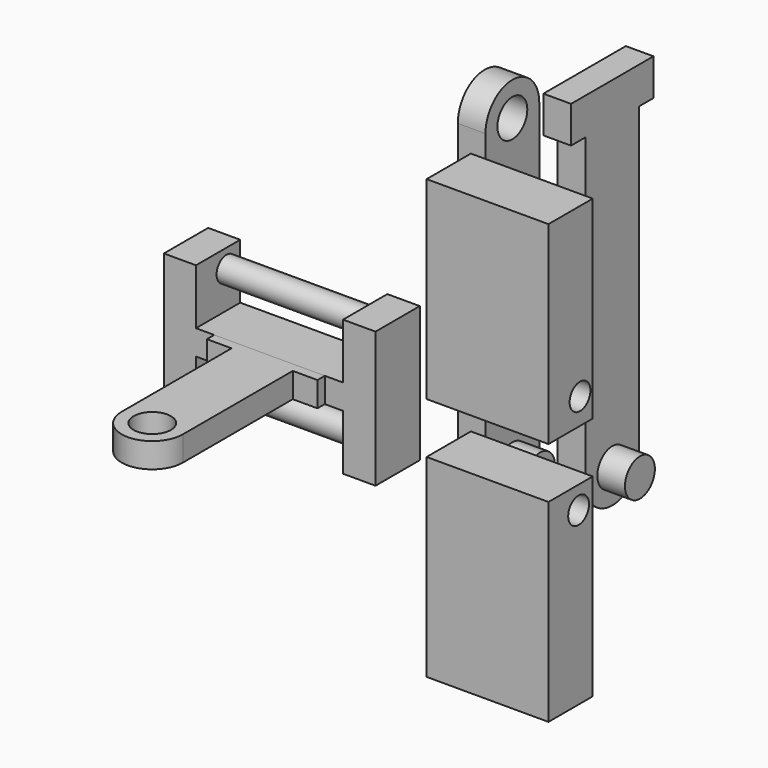
from build123d import *

# Parameters (mm, degrees)
F1_DEPTH  = 25.4
F2_R      = 8.5725
F3_DEPTH  = 12.7
F4_DEPTH  = 25.4
F5_R      = 8.5725
F6_DEPTH  = 11.440287
F0_W      = 55.9562
F0_H      = 88.9
F7_DEPTH  = 25.4
F10_D     = 11.938
F10_DEPTH = 76.2
F8_R      = 5.667763
F8_R_2    = 5.87329
F11_DEPTH = 76.2


with BuildPart() as f1:
    # F0 (on Front) → F1 (new body)
    with BuildSketch(Plane.XZ):
        Polygon((-32.358131, 25.119715), (-47.087183, 25.119715), (-47.087183, -37.176999), (-32.358131, -37.176999), (-32.358131, -11.745678), (35.168068, -11.745678), (35.168068, -37.176999), (50.077325, -37.176999), (50.077325, 25.119715), (35.168068, 25.119715), (35.168068, -0.305422), (-32.358131, -0.305422), align=None)
    extrude(amount=F1_DEPTH)

    # F5 (on face) → F6 (join)
    with BuildSketch(Plane(origin=(0, 0, -11.745678), x_dir=(1, 0, 0), z_dir=(0, 0, -1))):
        with BuildLine():
            Line((-12.641885, 92.672303), (-12.641885, 29.604521))
            Line((-12.641885, 29.604521), (15.451822, 29.604521))
            Line((15.451822, 29.604521), (15.451822, 92.672303))
            ThreePointArc((15.451822, 92.672303), (1.404968, 106.719157), (-12.641885, 92.672303))
        make_face()
        with Locations((1.404968, 92.672303)):
            Circle(F5_R, mode=Mode.SUBTRACT)
        Polygon((-12.641885, 29.604521), (-23.97843, 29.604521), (-23.97843, 25.4), (26.788366, 25.4), (26.788366, 29.604521), (15.451822, 29.604521), align=None)
    extrude(amount=-F6_DEPTH)

    # F8 (on face) → F11 (join)
    with BuildSketch(Plane.YZ.offset(-32.358131)):
        with Locations((-7.90081, 16.590567)):
            Circle(F8_R)
        with Locations((-8.701051, -29.08426)):
            Circle(F8_R_2)
    extrude(amount=F11_DEPTH)


with BuildPart() as f3:
    # F2 (on Right) → F3 (new body)
    with BuildSketch(Plane.YZ):
        with BuildLine():
            ThreePointArc((115.30438, 48.36467), (99.860028, 63.809022), (84.415677, 48.36467))
            Line((84.415677, 48.36467), (84.415677, -91.252276))
            ThreePointArc((84.415677, -91.252276), (99.860028, -106.696627), (115.30438, -91.252276))
            Line((115.30438, -91.252276), (115.30438, 48.36467))
        make_face()
        with Locations((99.860028, -91.252276)):
            Circle(F2_R, mode=Mode.SUBTRACT)
        with Locations((99.860028, 48.36467)):
            Circle(F2_R, mode=Mode.SUBTRACT)
        with BuildLine():
            Line((157.190561, 23.528788), (141.746209, 23.528788))
            Line((141.746209, 23.528788), (141.746209, -116.088158))
            ThreePointArc((141.746209, -116.088158), (157.190561, -131.532509), (172.634913, -116.088158))
            Line((172.634913, -116.088158), (172.634913, 23.528788))
            Line((172.634913, 23.528788), (157.190561, 23.528788))
        make_face()
        with Locations((157.190561, -116.088158)):
            Circle(F2_R, mode=Mode.SUBTRACT)
        Polygon((133.543161, 23.528788), (141.746209, 23.528788), (157.190561, 23.528788), (172.634913, 23.528788), (180.835173, 23.528788), (180.835173, 40.411931), (157.190561, 40.411931), (133.543161, 40.411931), align=None)
        with BuildLine():
            ThreePointArc((115.30438, 48.36467), (99.860028, 63.809022), (84.415677, 48.36467))
            Line((84.415677, 48.36467), (84.415677, -91.252276))
            ThreePointArc((84.415677, -91.252276), (99.860028, -106.696627), (115.30438, -91.252276))
            Line((115.30438, -91.252276), (115.30438, 48.36467))
        make_face()
        with Locations((99.860028, -91.252276)):
            Circle(F2_R, mode=Mode.SUBTRACT)
        with Locations((99.860028, 48.36467)):
            Circle(F2_R, mode=Mode.SUBTRACT)
    extrude(amount=F3_DEPTH)

    # F2 (on Right) → F4 (join)
    with BuildSketch(Plane.YZ):
        with Locations((99.860028, -91.252276)):
            Circle(F2_R)
        with Locations((157.190561, -116.088158)):
            Circle(F2_R)
    extrude(amount=F4_DEPTH)


with BuildPart() as f7:
    # F0 (on Front) → F7 (new body)
    with BuildSketch(Plane.XZ):
        with Locations((101.513058, -62.355198)):
            Rectangle(F0_W, F0_H)
        with Locations((101.513058, 49.941204)):
            Rectangle(F0_W, F0_H)
    extrude(amount=F7_DEPTH)

    # F10
    with Locations(Plane.YZ.offset(129.491158)):
        with Locations((-8.11729, -28.253516), (-7.309815, 17.423509)):
            Hole(F10_D / 2, depth=F10_DEPTH)


solid = Compound([f1.part, f3.part, f7.part])
